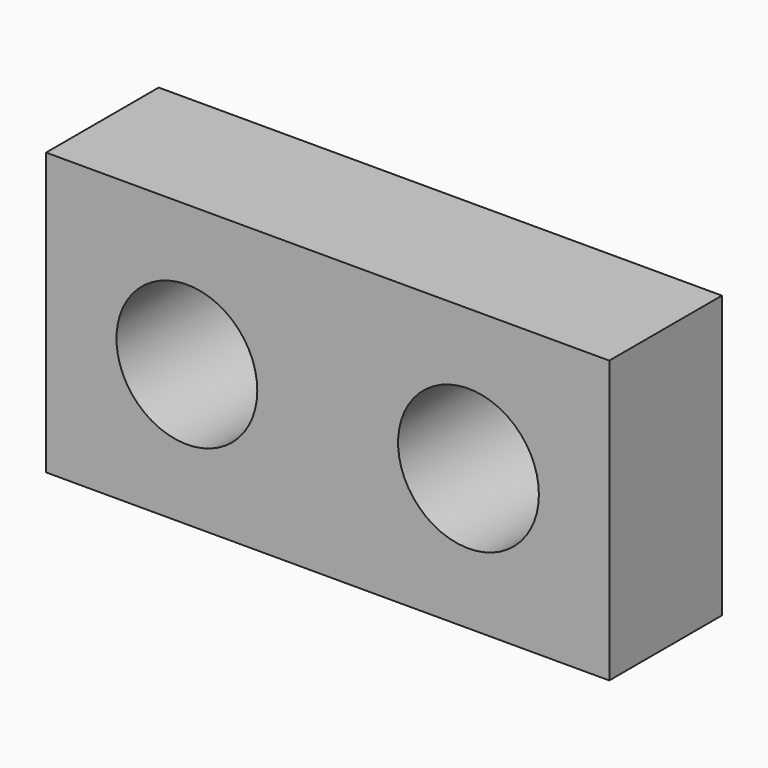
from build123d import *

# Parameters (mm, degrees)
F0_W     = 42.8752
F0_H     = 42.8752
F0_R     = 10.7188
F1_DEPTH = 21.4376


with BuildPart() as f1:
    # F0 (on Front) → F1 (new body)
    with BuildSketch(Plane.XZ):
        with Locations((21.4376, 0)):
            Rectangle(F0_W, F0_H)
        with Locations((21.4376, 0)):
            Circle(F0_R, mode=Mode.SUBTRACT)
        with Locations((-21.4376, 0)):
            Rectangle(F0_W, F0_H)
        with Locations((-21.4376, 0)):
            Circle(F0_R, mode=Mode.SUBTRACT)
    extrude(amount=F1_DEPTH)


solid = f1.part
